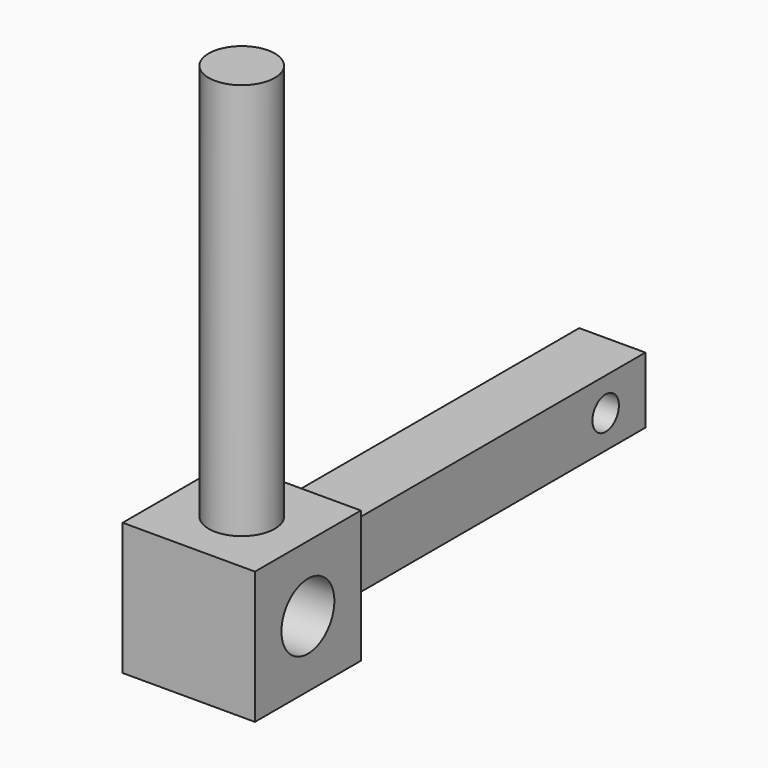
from build123d import *

# Parameters (mm, degrees)
F0_W     = 25.4
F0_H     = 25.4
F1_DEPTH = 25.4
F2_R     = 6.35
F3_DEPTH = 25.4
F4_R     = 6.35
F5_DEPTH = 76.2
F6_W     = 12.7
F6_H     = 12.7
F7_DEPTH = 76.2
F8_R     = 3.175
F9_DEPTH = 25.4


with BuildPart() as f1:
    # F0 (on Right) → F1 (new body)
    with BuildSketch(Plane.YZ):
        Rectangle(F0_W, F0_H)
    extrude(amount=F1_DEPTH)

    # F2 (on face) → F3 (cut)
    with BuildSketch(Plane.YZ.offset(25.4)):
        Circle(F2_R)
    extrude(amount=-F3_DEPTH, mode=Mode.SUBTRACT)

    # F4 (on face) → F5 (join)
    with BuildSketch(Plane.XY.offset(12.7)):
        with Locations((12.7, 0)):
            Circle(F4_R)
    extrude(amount=F5_DEPTH)

    # F6 (on face) → F7 (join)
    with BuildSketch(Plane(origin=(0, 12.7, 0), x_dir=(-1, 0, 0), z_dir=(0, 1, 0))):
        with Locations((-12.7, 0)):
            Rectangle(F6_W, F6_H)
    extrude(amount=F7_DEPTH)

    # F8 (on face) → F9 (cut)
    with BuildSketch(Plane(origin=(6.35, 0, 0), x_dir=(0, -1, 0), z_dir=(-1, 0, 0))):
        with Locations((-79.375, 0)):
            Circle(F8_R)
    extrude(amount=-F9_DEPTH, mode=Mode.SUBTRACT)


solid = f1.part
